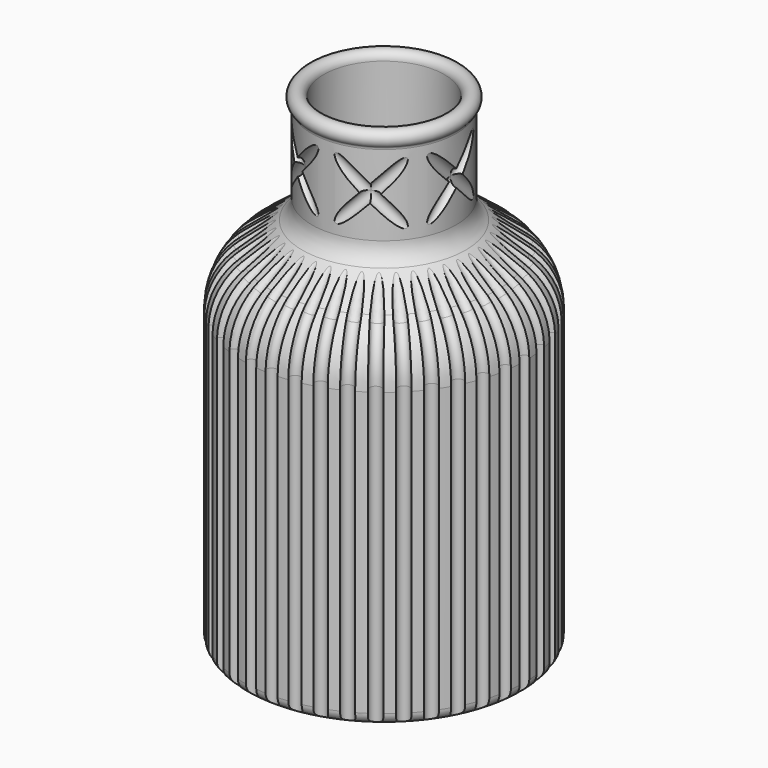
from build123d import *

# Parameters (mm, degrees)
SKETCH002_R           = 1.5
POCKET_DEPTH          = 12.5
SKETCH003_R           = 1.5
POCKET001_DEPTH       = 12.5
POLARPATTERN_COUNT    = 6
SKETCH_R              = 1.5
POLARPATTERN001_COUNT = 40


with BuildPart() as part:
    # Sketch001 → Revolution (revolve)
    with BuildSketch(Plane.XZ):
        with BuildLine():
            Line((0, 0), (32, 0))
            ThreePointArc((32, 0), (34.12132, 0.87868), (35, 3))
            Line((35, 3), (35, 73.412341))
            ThreePointArc((35, 73.412341), (33.236323, 80.95253), (28.311241, 86.928195))
            Line((20.360739, 92.993631), (28.311241, 86.928195))
            ThreePointArc((18, 97.763932), (18.622474, 95.102689), (20.360739, 92.993631))
            Line((18, 97.763932), (18, 117.763932))
            ThreePointArc((18.333333, 118.509288), (18.087129, 118.17218), (18, 117.763932))
            ThreePointArc((18.333333, 118.509288), (17.816497, 121.825742), (15, 120))
            Line((15, 120), (15, 97.763932))
            ThreePointArc((15, 97.763932), (15.933711, 93.772067), (18.541108, 90.60848))
            Line((18.541108, 90.60848), (26.49161, 84.543044))
            ThreePointArc((32, 73.412341), (30.54756, 79.621908), (26.49161, 84.543044))
            Line((32, 73.412341), (32, 3))
            Line((32, 3), (0, 3))
            Line((0, 3), (0, 0))
        make_face()
    revolve(axis=Axis((0, 0, 0), (0, 0, 1)))

    # Sketch002 → Pocket (cut, symmetric)
    with BuildSketch(Plane(origin=(18, 0, 108), x_dir=(1, 0, 0), z_dir=(0, 0.707107, 0.707107))):
        Circle(SKETCH002_R)
    pocket = extrude(amount=POCKET_DEPTH, both=True, mode=Mode.SUBTRACT)

    # Sketch003 → Pocket001 (cut, symmetric)
    with BuildSketch(Plane(origin=(18, 0, 108), x_dir=(1, 0, 0), z_dir=(0, -0.707107, 0.707107))):
        Circle(SKETCH003_R)
    pocket001 = extrude(amount=POCKET001_DEPTH, both=True, mode=Mode.SUBTRACT)

    # PolarPattern: Pocket, Pocket001 ×6 about axis
    polarpattern_axis = Axis((0, 0, 0), (0, 0, 1))
    for i in range(1, POLARPATTERN_COUNT):
        add(pocket.rotate(polarpattern_axis, i * 360 / POLARPATTERN_COUNT), mode=Mode.SUBTRACT)
        add(pocket001.rotate(polarpattern_axis, i * 360 / POLARPATTERN_COUNT), mode=Mode.SUBTRACT)

    # SubtractivePipe: sweep along a path in Sketch004
    with BuildLine(Plane.XZ) as subtractivepipe_path:
        Line((35, 0), (35, 73.973029))
        ThreePointArc((35, 73.973029), (33.625945, 80.668537), (29.725902, 86.281693))
        Line((29.725902, 86.281693), (21.464353, 94.152093))
    # Sketch → SubtractivePipe (sweep, cut)
    with BuildSketch(Plane(origin=(35, 0, 0), x_dir=(1, 0, 0), z_dir=(0, 0, 1))):
        Circle(SKETCH_R)
    subtractivepipe = sweep(path=subtractivepipe_path.line, mode=Mode.SUBTRACT)

    # PolarPattern001: SubtractivePipe ×40 about axis
    polarpattern001_axis = Axis((0, 0, 0), (0, 0, 1))
    for i in range(1, POLARPATTERN001_COUNT):
        add(subtractivepipe.rotate(polarpattern001_axis, i * 360 / POLARPATTERN001_COUNT), mode=Mode.SUBTRACT)


solid = part.part
